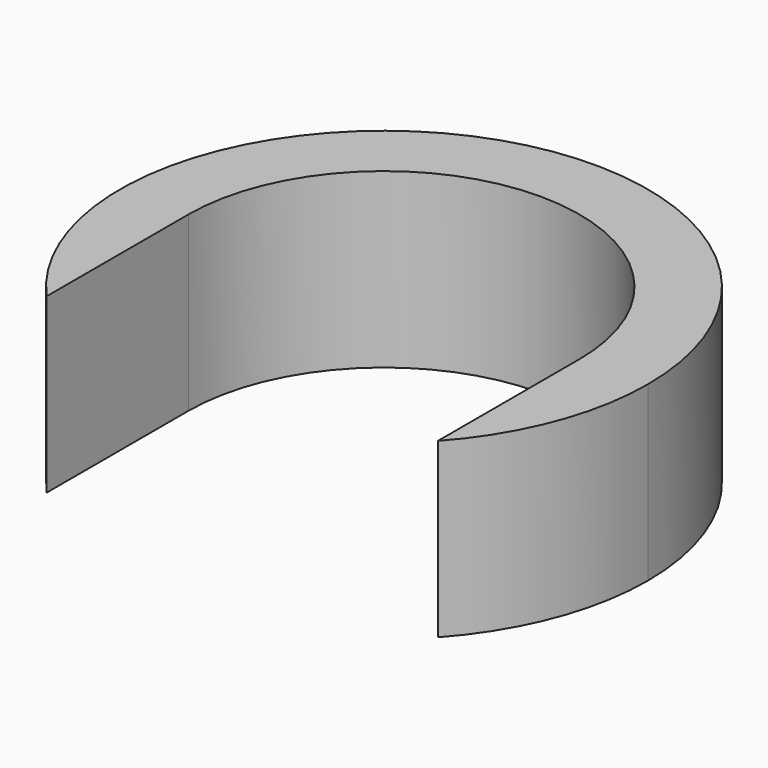
from build123d import *

# Parameters (mm, degrees)
F1_DEPTH = 19


with BuildPart() as f1:
    # F0 (on Top) → F1 (new body)
    with BuildSketch(Plane.XY):
        with BuildLine():
            ThreePointArc((21.5, -19.4615), (27.060118, -10.428327), (29, 0))
            ThreePointArc((29, 0), (-10.428327, 27.060118), (-21.5, -19.4615))
            Line((-21.5, -19.4615), (-21.5, 0))
            ThreePointArc((-21.5, 0), (0, 21.5), (21.5, 0))
            Line((21.5, 0), (21.5, -19.4615))
        make_face()
    extrude(amount=F1_DEPTH)


solid = f1.part
